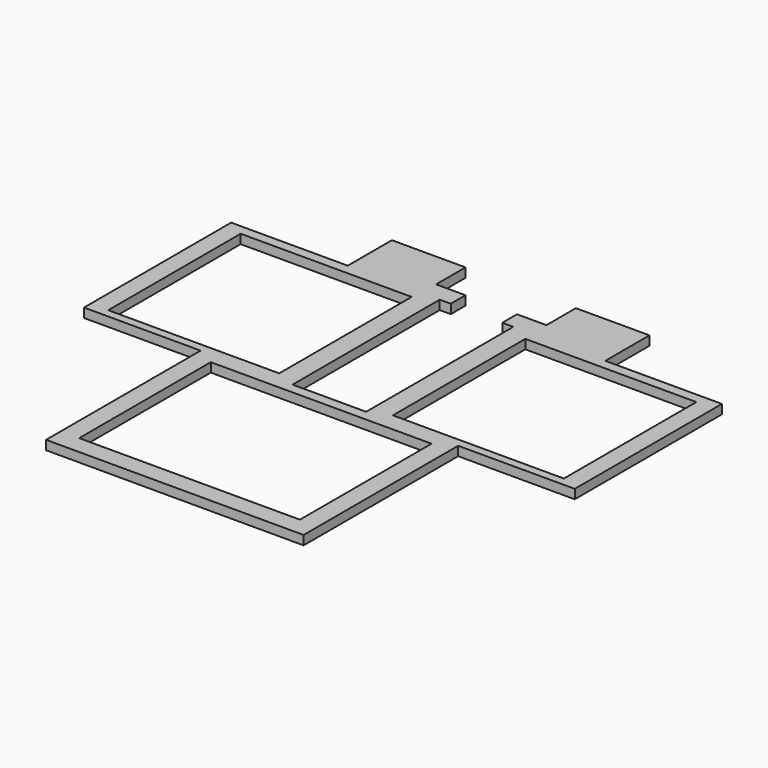
from build123d import *

# Parameters (mm, degrees)
F0_W     = 2.155658
F0_H     = 63.5
F0_W_2   = 76.2
F0_H_2   = 56.771246
F0_W_3   = 59.0296
F0_H_3   = 57.15
F0_W_4   = 3.81
F0_H_4   = 6.35
F0_W_5   = 25.4
F0_H_5   = 12.7
F1_DEPTH = 3.175


with BuildPart() as f1:
    # F0 (on Top) → F1 (new body)
    with BuildSketch(Plane.XY):
        with Locations((-1.077829, 31.75)):
            Rectangle(F0_W, F0_H)
        Polygon((0, 0), (-2.155658, 0), (-2.155658, 63.5), (-31.75, 63.5), (-72.005658, 63.5), (-72.005658, 0), (-31.75, 0), (-31.75, -66.675), (57.15, -66.675), (57.15, 0), (97.405658, 0), (97.405658, 63.5), (57.15, 63.5), (27.555658, 63.5), (27.555658, 0), (25.4, 0), (12.7, 0), align=None)
        with Locations((12.7, -31.939377)):
            Rectangle(F0_W_2, F0_H_2, mode=Mode.SUBTRACT)
        with Locations((-36.432958, 31.4579)):
            Rectangle(F0_W_3, F0_H_3, mode=Mode.SUBTRACT)
        with Locations((61.832958, 31.4579)):
            Rectangle(F0_W_3, F0_H_3, mode=Mode.SUBTRACT)
        Polygon((-31.75, 63.5), (-2.155658, 63.5), (0, 63.5), (0, 69.85), (-6.35, 69.85), (-31.75, 69.85), align=None)
        with Locations((1.905, 66.675)):
            Rectangle(F0_W_4, F0_H_4)
        with Locations((26.477829, 31.75)):
            Rectangle(F0_W, F0_H)
        with Locations((-19.05, 76.2)):
            Rectangle(F0_W_5, F0_H_5)
        Polygon((25.4, 69.85), (25.4, 63.5), (27.555658, 63.5), (57.15, 63.5), (57.15, 69.85), (31.75, 69.85), align=None)
        with Locations((23.495, 66.675)):
            Rectangle(F0_W_4, F0_H_4)
        with Locations((44.45, 76.2)):
            Rectangle(F0_W_5, F0_H_5)
    extrude(amount=F1_DEPTH)


solid = f1.part
